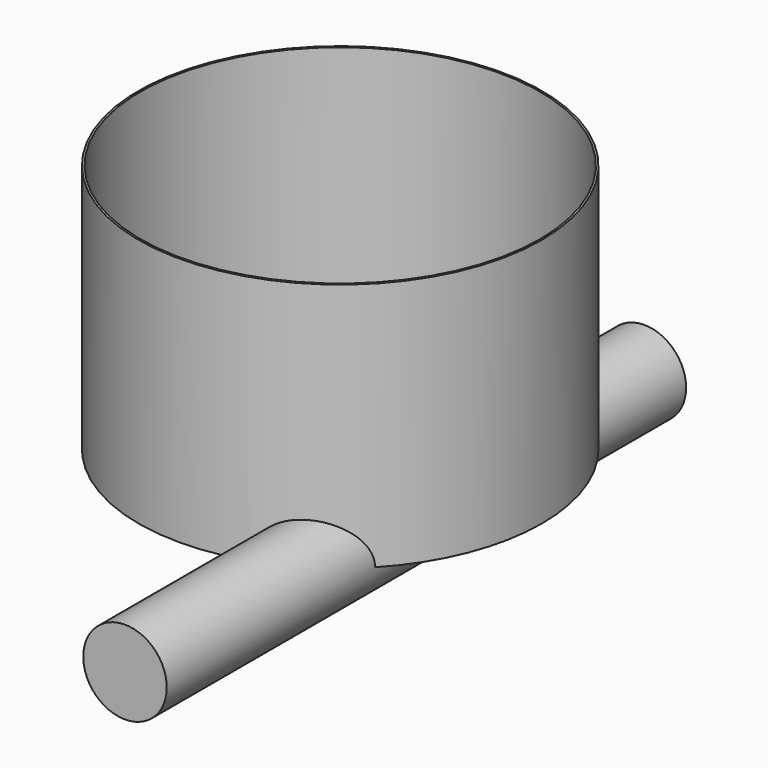
from build123d import *

# Parameters (mm, degrees)
F0_R      = 20.2
F2_DEPTH  = 25
F1_R      = 20
F3_DEPTH  = 12.5
F3_FACE_R = 20
F4_DEPTH  = 25
F5_R      = 4.181686
F6_DEPTH  = 40
F6_FACE_R = 4.181686
F7_DEPTH  = 25


with BuildPart() as f2:
    # F0 (on Top) → F2 (new body)
    with BuildSketch(Plane.XY):
        Circle(F0_R)
    extrude(amount=F2_DEPTH)

    # F1 (on Top) → F3 (cut, symmetric)
    with BuildSketch(Plane.XY):
        Circle(F1_R)
    extrude(amount=F3_DEPTH, both=True, mode=Mode.SUBTRACT)

    # F3_face (on face) → F4 (cut)
    with BuildSketch(Plane(origin=(0, 0, 12.5), x_dir=(1, 0, 0), z_dir=(0, 0, -1))):
        Circle(F3_FACE_R)
    extrude(amount=-F4_DEPTH, mode=Mode.SUBTRACT)

    # F5 (on Front) → F6 (join)
    with BuildSketch(Plane.XZ):
        with Locations((10.451388, 0)):
            Circle(F5_R)
    extrude(amount=F6_DEPTH)

    # F6_face (on face) → F7 (join)
    with BuildSketch(Plane(origin=(10.451388, 0, 0), x_dir=(1, 0, 0), z_dir=(0, 1, 0))):
        Circle(F6_FACE_R)
    extrude(amount=F7_DEPTH)


solid = f2.part
